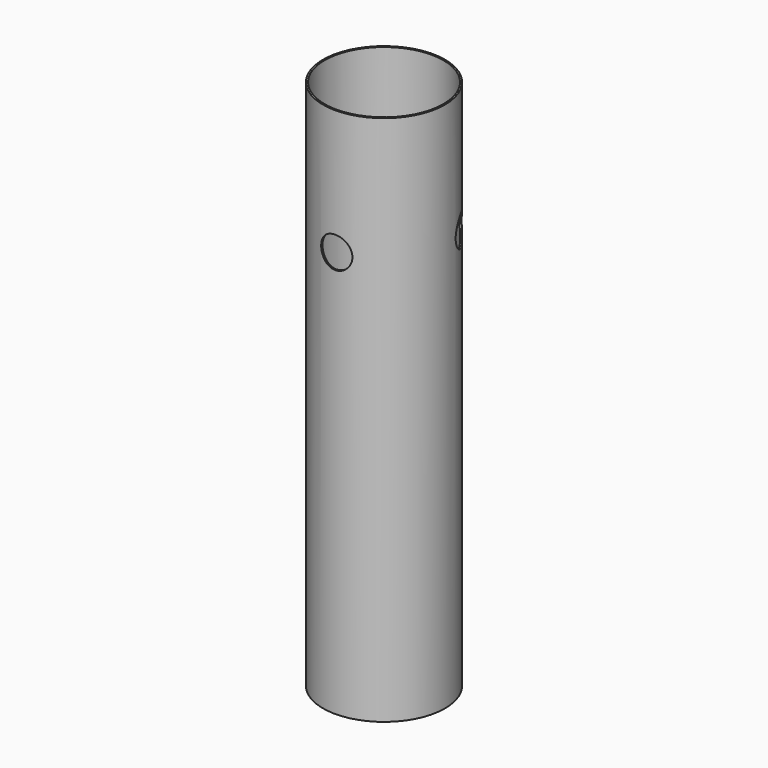
from build123d import *

# Parameters (mm, degrees)
F0_W      = 0.3302
F0_H      = 107.95
F2_R      = 3.175
F3_DEPTH  = 12.3962
F6_R      = 3.175
F7_DEPTH  = 1.7554578348
F10_DEPTH = 1.7554578348


with BuildPart() as f1:
    # F0 (on Front) → F1 (revolve)
    with BuildSketch(Plane.XZ):
        with Locations((12.2301, 53.975)):
            Rectangle(F0_W, F0_H)
    revolve(axis=Axis((0, 0, 53.975), (0, 0, 1)))

    # F2 (on Front) → F3 (cut, through all)
    with BuildSketch(Plane.XZ):
        with Locations((0, 82.55)):
            Circle(F2_R)
    extrude(amount=F3_DEPTH, mode=Mode.SUBTRACT)

    # F6 (on line) → F7 (cut, up to face)
    with BuildSketch(Plane(origin=(10.734558085, 6.1976, 0), x_dir=(-0.5, 0.8660254038, 0), z_dir=(0.8660254038, 0.5, 0))):
        with Locations((0, 82.55)):
            Circle(F6_R)
    extrude(amount=-F7_DEPTH, mode=Mode.SUBTRACT)

    # F9 (on line) → F10 (cut, up to face)
    with BuildSketch(Plane(origin=(-10.734558085, 6.1976, 0), x_dir=(-0.5, -0.8660254038, 0), z_dir=(-0.8660254038, 0.5, 0))):
        with BuildLine():
            ThreePointArc((0, 85.725), (-3.175, 82.55), (0, 79.375))
            Line((0, 79.375), (0, 85.725))
        make_face()
        with BuildLine():
            Line((0, 85.725), (0, 79.375))
            ThreePointArc((0, 79.375), (2.2450640303, 80.3049359697), (3.175, 82.55))
            ThreePointArc((3.175, 82.55), (2.2450640303, 84.7950640303), (0, 85.725))
        make_face()
    extrude(amount=-F10_DEPTH, mode=Mode.SUBTRACT)


solid = f1.part
